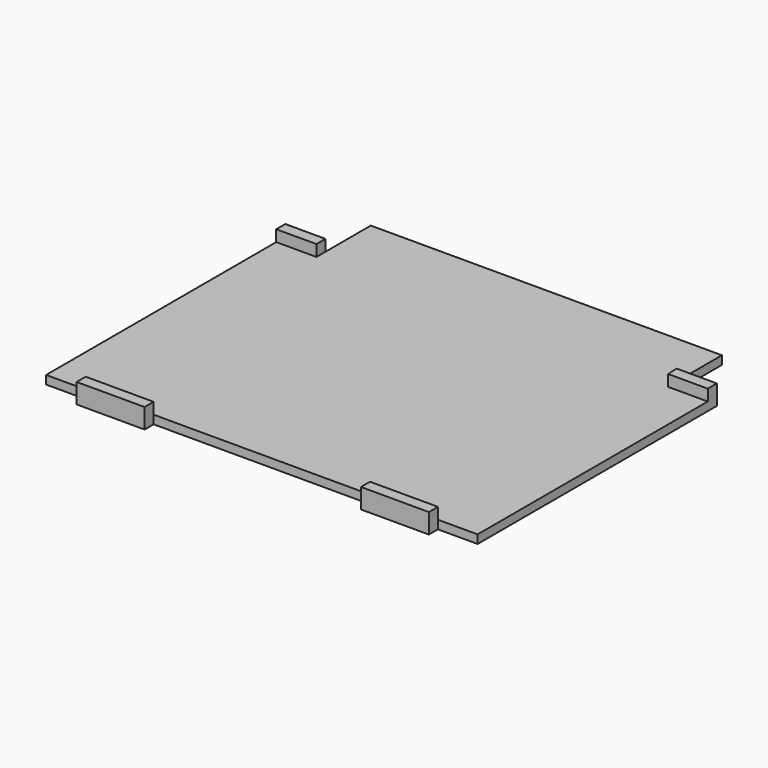
from build123d import *

# Parameters (mm, degrees)
F0_W     = 1.5
F0_H     = 50.8
F0_W_2   = 12
F0_H_2   = 2
F1_DEPTH = 1.5
F2_DEPTH = 2


with BuildPart() as f1:
    # F0 (on Top) → F1 (new body)
    with BuildSketch(Plane.XY):
        with Locations((37.35, 0)):
            Rectangle(F0_W, F0_H)
        Polygon((31.1, -25.4), (36.6, -25.4), (36.6, 25.4), (31.0998331056, 25.4), (31, 25.4), (0, 25.4), (-31, 25.4), (-36.6, 25.4), (-36.6, -25.4), (-31.1, -25.4), (-19.1, -25.4), (19.1, -25.4), align=None)
        Polygon((36.6, 25.4), (38.1, 25.4), (38.1, 27.4), (31, 27.4), (31.0998331056, 25.4), align=None)
        with Locations((25.1, -26.4)):
            Rectangle(F0_W_2, F0_H_2)
        Polygon((31, 25.4), (31.0998331056, 25.4), (31, 27.4), align=None)
        Polygon((31, 25.4), (31, 27.4), (31, 37.4), (0, 37.4), (0, 25.4), align=None)
        with Locations((-25.1, -26.4)):
            Rectangle(F0_W_2, F0_H_2)
        Polygon((-31, 25.4), (0, 25.4), (0, 37.4), (-31, 37.4), (-31, 27.4), align=None)
        with Locations((-37.35, 0)):
            Rectangle(F0_W, F0_H)
        Polygon((-36.6, 25.4), (-31, 25.4), (-31, 27.4), (-38.1, 27.4), (-38.1, 25.4), align=None)
    extrude(amount=-F1_DEPTH)

    # F0 (on Top) → F2 (join)
    with BuildSketch(Plane.XY):
        Polygon((-36.6, 25.4), (-31, 25.4), (-31, 27.4), (-38.1, 27.4), (-38.1, 25.4), align=None)
        Polygon((36.6, 25.4), (38.1, 25.4), (38.1, 27.4), (31, 27.4), (31.0998331056, 25.4), align=None)
        with Locations((25.1, -26.4)):
            Rectangle(F0_W_2, F0_H_2)
        with Locations((-25.1, -26.4)):
            Rectangle(F0_W_2, F0_H_2)
    extrude(amount=F2_DEPTH)


solid = f1.part
